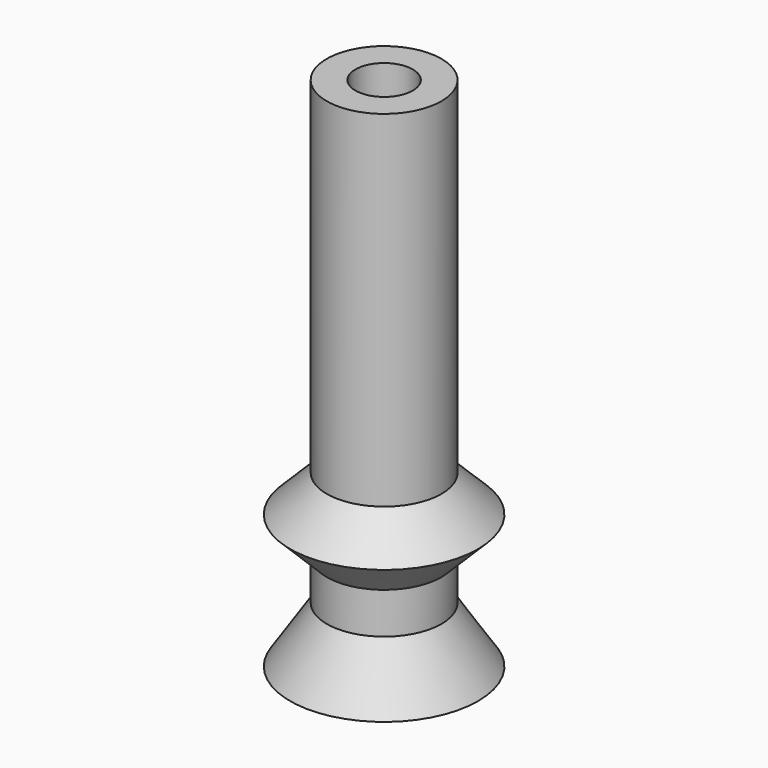
from build123d import *


with BuildPart() as f1:
    # F0 (on Front) → F1 (revolve)
    with BuildSketch(Plane.XZ):
        Polygon((3, 27), (1.5, 27), (1.5, 0), (4.916227, 0), (3, 2.928835), (3, 5.083773), (3, 8.916227), align=None)
        Polygon((4.916227, 7), (3, 8.916227), (3, 5.083773), align=None)
    revolve(axis=Axis((0, 0, 11), (0, 0, 1)))


solid = f1.part
